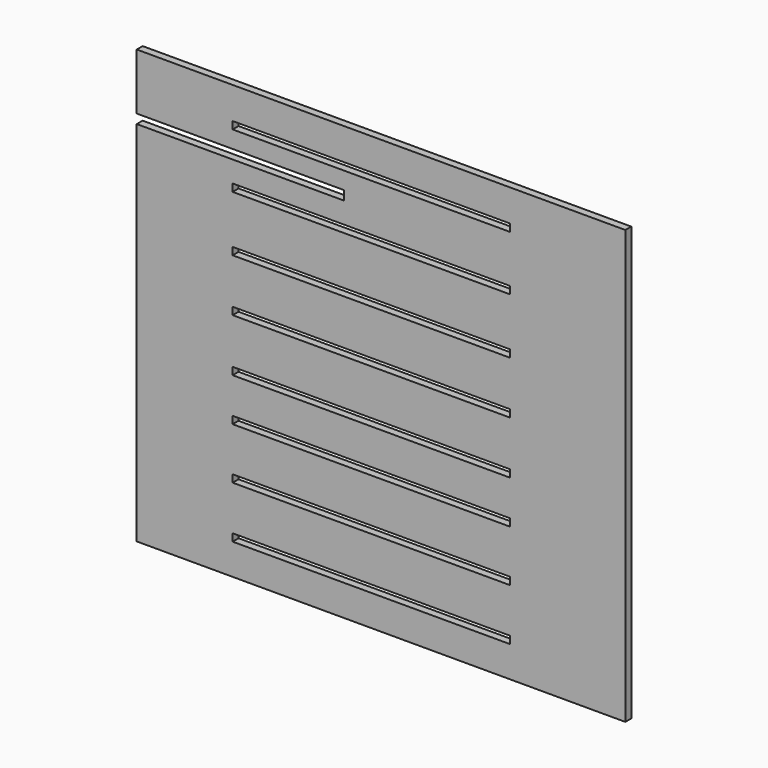
from build123d import *

# Parameters (mm, degrees)
F0_W     = 75
F0_H     = 2
F0_W_2   = 8.9530238211
F0_H_2   = 10.3744039685
F0_H_3   = 13.0056687072
F0_H_4   = 12.9116945341
F1_DEPTH = 1
F2_DEPTH = 2


with BuildPart() as f1:
    # F0 (on Front) → F1 (new body)
    with BuildSketch(Plane.XZ):
        Polygon((-53.6999596655, 0), (-53.6999596655, -10.3744039685), (-6.6999596655, -10.3744039685), (-6.6999596655, -12.8744039685), (-53.6999596655, -12.8744039685), (-62.6529834867, -12.8744039685), (-62.6529834867, -68.3524683118), (69.3470165133, -68.3524683118), (69.3470165133, 48.6475316882), (-62.6529834867, 48.6475316882), (-62.6529834867, 33.4173632413), (-53.6999596655, 33.4173632413), (-6.6999596655, 33.4173632413), (-6.6999596655, 30.9173632413), (-53.6999596655, 30.9173632413), (-53.6999596655, 18.0056687072), (-6.6999596655, 18.0056687072), (-6.6999596655, 15.5056687072), (-53.6999596655, 15.5056687072), (-53.6999596655, 2.5), (-6.6999596655, 2.5), (-6.6999596655, 0), align=None)
        with Locations((0.7488928735, -58.9818040133)):
            Rectangle(F0_W, F0_H, mode=Mode.SUBTRACT)
        with Locations((0.7488928735, -44.9531620145)):
            Rectangle(F0_W, F0_H, mode=Mode.SUBTRACT)
        with Locations((0.7488928735, -31.0450477302)):
            Rectangle(F0_W, F0_H, mode=Mode.SUBTRACT)
        with Locations((0.7488928735, -19.3923042864)):
            Rectangle(F0_W, F0_H, mode=Mode.SUBTRACT)
        with Locations((0.7488928735, -5.1082937755)):
            Rectangle(F0_W, F0_H, mode=Mode.SUBTRACT)
        with Locations((0.7488928735, 9.1280854344)):
            Rectangle(F0_W, F0_H, mode=Mode.SUBTRACT)
        with Locations((0.7488928735, 24.2115164399)):
            Rectangle(F0_W, F0_H, mode=Mode.SUBTRACT)
        with Locations((0.7488928735, 39.0593687296)):
            Rectangle(F0_W, F0_H, mode=Mode.SUBTRACT)
        with Locations((-58.1764715761, -5.1872019842)):
            Rectangle(F0_W_2, F0_H_2)
        Polygon((-6.6999596655, -10.3744039685), (-53.6999596655, -10.3744039685), (-62.6529834867, -10.3744039685), (-62.6529834867, -12.8744039685), (-53.6999596655, -12.8744039685), (-6.6999596655, -12.8744039685), align=None)
        Polygon((-62.6529834867, 0), (-53.6999596655, 0), (-6.6999596655, 0), (-6.6999596655, 2.5), (-53.6999596655, 2.5), (-62.6529834867, 2.5), align=None)
        with Locations((-58.1764715761, 9.0028343536)):
            Rectangle(F0_W_2, F0_H_3)
        Polygon((-62.6529834867, 18.0056687072), (-62.6529834867, 15.5056687072), (-53.6999596655, 15.5056687072), (-6.6999596655, 15.5056687072), (-6.6999596655, 18.0056687072), (-53.6999596655, 18.0056687072), align=None)
        with Locations((-58.1764715761, 24.4615159743)):
            Rectangle(F0_W_2, F0_H_4)
    extrude(amount=F1_DEPTH)

    # F0 (on Front) → F2 (join)
    with BuildSketch(Plane.XZ):
        Polygon((-53.6999596655, 0), (-53.6999596655, -10.3744039685), (-6.6999596655, -10.3744039685), (-6.6999596655, -12.8744039685), (-53.6999596655, -12.8744039685), (-62.6529834867, -12.8744039685), (-62.6529834867, -68.3524683118), (69.3470165133, -68.3524683118), (69.3470165133, 48.6475316882), (-62.6529834867, 48.6475316882), (-62.6529834867, 33.4173632413), (-53.6999596655, 33.4173632413), (-6.6999596655, 33.4173632413), (-6.6999596655, 30.9173632413), (-53.6999596655, 30.9173632413), (-53.6999596655, 18.0056687072), (-6.6999596655, 18.0056687072), (-6.6999596655, 15.5056687072), (-53.6999596655, 15.5056687072), (-53.6999596655, 2.5), (-6.6999596655, 2.5), (-6.6999596655, 0), align=None)
        with Locations((0.7488928735, -58.9818040133)):
            Rectangle(F0_W, F0_H, mode=Mode.SUBTRACT)
        with Locations((0.7488928735, -44.9531620145)):
            Rectangle(F0_W, F0_H, mode=Mode.SUBTRACT)
        with Locations((0.7488928735, -31.0450477302)):
            Rectangle(F0_W, F0_H, mode=Mode.SUBTRACT)
        with Locations((0.7488928735, -19.3923042864)):
            Rectangle(F0_W, F0_H, mode=Mode.SUBTRACT)
        with Locations((0.7488928735, -5.1082937755)):
            Rectangle(F0_W, F0_H, mode=Mode.SUBTRACT)
        with Locations((0.7488928735, 9.1280854344)):
            Rectangle(F0_W, F0_H, mode=Mode.SUBTRACT)
        with Locations((0.7488928735, 24.2115164399)):
            Rectangle(F0_W, F0_H, mode=Mode.SUBTRACT)
        with Locations((0.7488928735, 39.0593687296)):
            Rectangle(F0_W, F0_H, mode=Mode.SUBTRACT)
        with Locations((-58.1764715761, -5.1872019842)):
            Rectangle(F0_W_2, F0_H_2)
        Polygon((-6.6999596655, -10.3744039685), (-53.6999596655, -10.3744039685), (-62.6529834867, -10.3744039685), (-62.6529834867, -12.8744039685), (-53.6999596655, -12.8744039685), (-6.6999596655, -12.8744039685), align=None)
        Polygon((-62.6529834867, 0), (-53.6999596655, 0), (-6.6999596655, 0), (-6.6999596655, 2.5), (-53.6999596655, 2.5), (-62.6529834867, 2.5), align=None)
        with Locations((-58.1764715761, 9.0028343536)):
            Rectangle(F0_W_2, F0_H_3)
        Polygon((-62.6529834867, 18.0056687072), (-62.6529834867, 15.5056687072), (-53.6999596655, 15.5056687072), (-6.6999596655, 15.5056687072), (-6.6999596655, 18.0056687072), (-53.6999596655, 18.0056687072), align=None)
        with Locations((-58.1764715761, 24.4615159743)):
            Rectangle(F0_W_2, F0_H_4)
    extrude(amount=F2_DEPTH)


solid = f1.part
